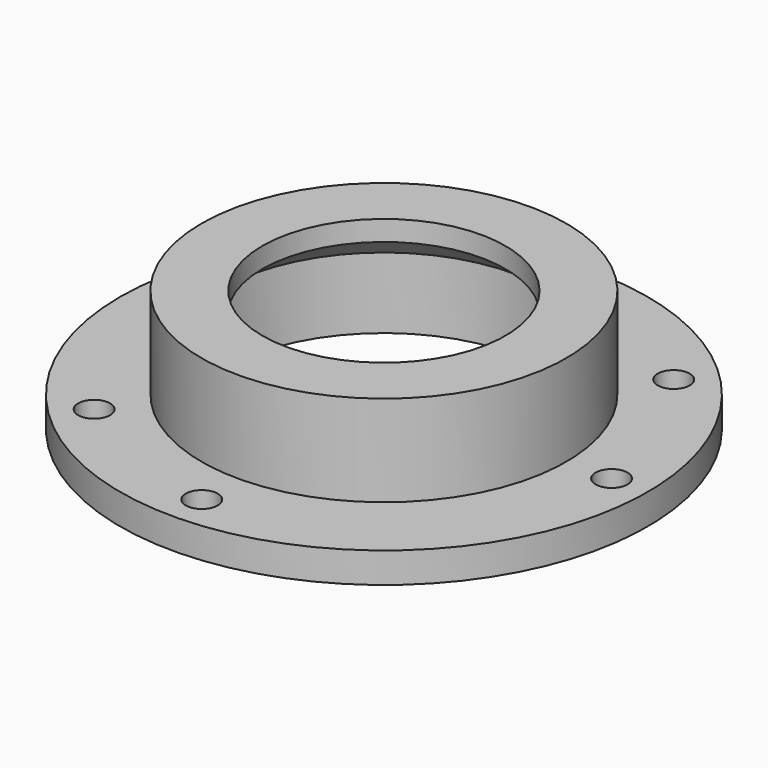
from build123d import *

# Parameters (mm, degrees)
SKETCH001_R       = 1.58
POCKET_DEPTH      = 0.001
POCKET_DEPTH_BACK = -12.001


with BuildPart() as part:
    # Sketch → Revolution (revolve)
    with BuildSketch(Plane.XZ):
        Polygon((-16, 7), (-12, 10), (-12, 12), (-18, 12), (-18, 3), (-26.05, 3), (-26.05, 0), (-16, 0), align=None)
    revolve(axis=Axis((0, 0, 0), (0, 0, 1)))

    # Sketch001 → Pocket (cut, two sides)
    with BuildSketch(Plane.XY) as pocket_sk:
        with Locations((22.47, 0)):
            Circle(SKETCH001_R)
        with Locations((0, -22.47)):
            Circle(SKETCH001_R)
        with Locations((-15.888689, -15.888689)):
            Circle(SKETCH001_R)
        with Locations((15.888689, 15.888689)):
            Circle(SKETCH001_R)
    extrude(amount=-POCKET_DEPTH, mode=Mode.SUBTRACT)
    extrude(pocket_sk.sketch, amount=-POCKET_DEPTH_BACK, mode=Mode.SUBTRACT)


solid = part.part
